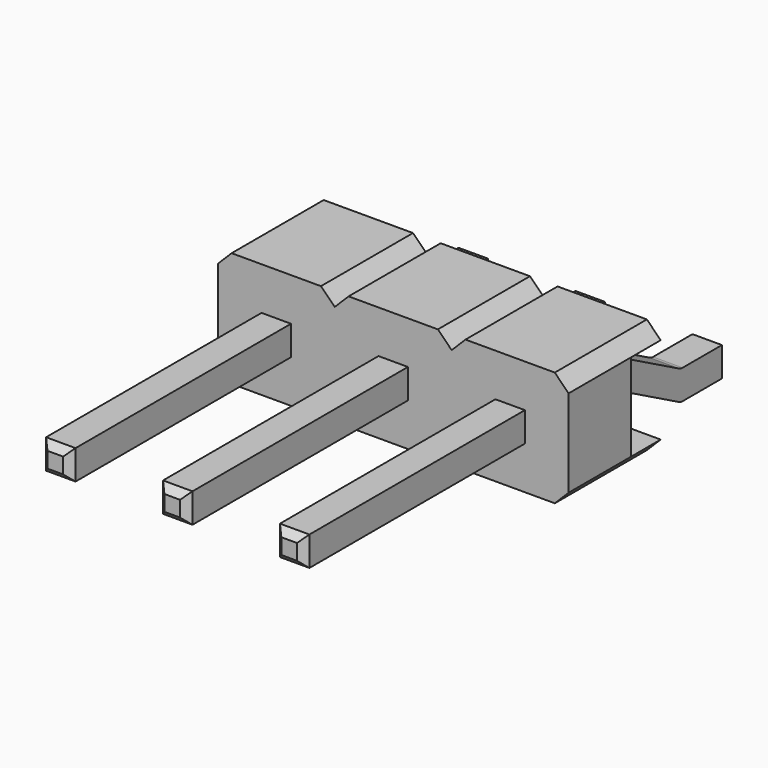
from build123d import *

# Parameters (mm, degrees)
SKETCH002_AS_DRAWN_W                      = 0.64
SKETCH002_AS_DRAWN_H                      = 0.64
EXTRUDE002_DEPTH                          = 6
EXTRUDE002_ONTO_SKETCH002_ROLL_ANGLE      = 90
CHAMFER001_SIZE                           = 0.15
SKETCH003_W                               = 0.8
SKETCH003_H                               = 1.9
EXTRUDE003_DEPTH                          = 7.62
EXTRUDE001_DEPTH                          = 2.5
EXTRUDE001_ONTO_SKETCH001_ROLL_ANGLE      = 90
SKETCH_AS_DRAWN_W                         = 7.62
SKETCH_AS_DRAWN_H                         = 2.5
EXTRUDE_DEPTH                             = 2.5
EXTRUDE_ONTO_SKETCH_ROLL_ANGLE            = 90
CHAMFER_SIZE                              = 0.3
SKETCH004_AS_DRAWN_W                      = 0.64
SKETCH004_AS_DRAWN_H                      = 1.57
EXTRUDE004_DEPTH                          = 3.8
EXTRUDE004_ONTO_SKETCH004_ROLL_ANGLE      = 90
EXTRUDE004_ONTO_SKETCH004_PLACEMENT_ANGLE = 180
EXTRUDE005_DEPTH                          = 5.72
FILLET_R                                  = 0.2
CHAMFER002_SIZE                           = 0.15


with BuildPart() as chamfer001:
    # Sketch002 as drawn → Extrude002 (new)
    with BuildSketch(Plane.XY):
        Rectangle(SKETCH002_AS_DRAWN_W, SKETCH002_AS_DRAWN_H)
        with Locations((-2.54, 0)):
            Rectangle(SKETCH002_AS_DRAWN_W, SKETCH002_AS_DRAWN_H)
        with Locations((2.54, 0)):
            Rectangle(SKETCH002_AS_DRAWN_W, SKETCH002_AS_DRAWN_H)
    extrude(amount=EXTRUDE002_DEPTH)


with BuildPart() as chamfer001_1:
    # Extrude002 onto Sketch002 roll: moved
    add(chamfer001.part.rotate(Axis((0, 0, 0), (1, 0, 0)), EXTRUDE002_ONTO_SKETCH002_ROLL_ANGLE))


with BuildPart() as chamfer001_2:
    # Extrude002 onto Sketch002 placement: moved
    add(chamfer001_1.part.moved(Location((0, -2.5, 0))))

    # Chamfer001
    chamfer001_edges = [chamfer001_2.edges().sort_by_distance(p)[0] for p in [
        (0, -8.5, 0.32),
        (-0.32, -8.5, 0),
        (0, -8.5, -0.32),
        (0.32, -8.5, 0),
        (2.54, -8.5, 0.32),
        (2.22, -8.5, 0),
        (2.54, -8.5, -0.32),
        (2.86, -8.5, 0),
        (-2.54, -8.5, 0.32),
        (-2.86, -8.5, 0),
        (-2.54, -8.5, -0.32),
        (-2.22, -8.5, 0),
    ]]
    chamfer(chamfer001_edges, length=CHAMFER001_SIZE)


with BuildPart() as extrude003:
    # Sketch003 (on Face6 of Cut) → Extrude003 (new body)
    with BuildSketch(Plane(origin=(-3.81, 0, 0), x_dir=(0, -1, 0), z_dir=(-1, 0, 0))):
        with Locations((0.4, 0)):
            Rectangle(SKETCH003_W, SKETCH003_H)
    extrude(amount=-EXTRUDE003_DEPTH)


with BuildPart() as extrude001:
    # Sketch001 as drawn → Extrude001 (new)
    with BuildSketch(Plane.XY):
        Polygon((-1.57, 1.25), (-1.27, 0.95), (-0.97, 1.25), align=None)
        Polygon((1.57, 1.25), (1.27, 0.95), (0.97, 1.25), align=None)
        Polygon((-1.57, -1.25), (-1.27, -0.95), (-0.97, -1.25), align=None)
        Polygon((1.57, -1.25), (1.27, -0.95), (0.97, -1.25), align=None)
    extrude(amount=-EXTRUDE001_DEPTH)


with BuildPart() as extrude001_1:
    # Extrude001 onto Sketch001 roll: moved
    add(extrude001.part.rotate(Axis((0, 0, 0), (1, 0, 0)), EXTRUDE001_ONTO_SKETCH001_ROLL_ANGLE))


with BuildPart() as extrude001_2:
    # Extrude001 onto Sketch001 placement: moved
    add(extrude001_1.part.moved(Location((0, -2.5, 0))))


with BuildPart() as cut001:
    # Sketch as drawn → Extrude (new)
    with BuildSketch(Plane.XY):
        Rectangle(SKETCH_AS_DRAWN_W, SKETCH_AS_DRAWN_H)
    extrude(amount=EXTRUDE_DEPTH)


with BuildPart() as cut001_1:
    # Extrude onto Sketch roll: moved
    add(cut001.part.rotate(Axis((0, 0, 0), (1, 0, 0)), EXTRUDE_ONTO_SKETCH_ROLL_ANGLE))


with BuildPart() as cut001_2:
    # Extrude onto Sketch placement: moved
    add(cut001_1.part)

    # Chamfer
    chamfer_edges = [cut001_2.edges().sort_by_distance(p)[0] for p in [
        (-3.81, -1.25, 1.25),
        (3.81, -1.25, 1.25),
        (3.81, -1.25, -1.25),
        (-3.81, -1.25, -1.25),
    ]]
    chamfer(chamfer_edges, length=CHAMFER_SIZE)

    # Cut: cut Extrude001
    add(extrude001_2.part, mode=Mode.SUBTRACT)

    # Cut001: cut Extrude003
    add(extrude003.part, mode=Mode.SUBTRACT)


with BuildPart() as extrude004:
    # Sketch004 as drawn → Extrude004 (new)
    with BuildSketch(Plane.XY):
        with Locations((0, -0.465)):
            Rectangle(SKETCH004_AS_DRAWN_W, SKETCH004_AS_DRAWN_H)
        with Locations((-2.54, -0.465)):
            Rectangle(SKETCH004_AS_DRAWN_W, SKETCH004_AS_DRAWN_H)
        with Locations((2.54, -0.465)):
            Rectangle(SKETCH004_AS_DRAWN_W, SKETCH004_AS_DRAWN_H)
    extrude(amount=EXTRUDE004_DEPTH)


with BuildPart() as extrude004_1:
    # Extrude004 onto Sketch004 roll: moved
    add(extrude004.part.rotate(Axis((0, 0, 0), (1, 0, 0)), EXTRUDE004_ONTO_SKETCH004_ROLL_ANGLE))


with BuildPart() as extrude004_2:
    # Extrude004 onto Sketch004 placement: moved
    add(extrude004_1.part.moved(Location((0, -0.8, 0))).rotate(Axis((0, -0.8, 0), (0, 0, 1)), EXTRUDE004_ONTO_SKETCH004_PLACEMENT_ANGLE))


with BuildPart() as fusion:
    # Sketch005 (on Face8 of Extrude004) → Extrude005 (new body)
    with BuildSketch(Plane(origin=(-2.86, 0, 0), x_dir=(0, -1, 0), z_dir=(-1, 0, 0))):
        Polygon((0.8, 0.32), (0, 0.32), (-1.73, -0.61), (-3, -0.61), (-3, -1.25), (-1.73, -1.25), (0, -0.32), (0.8, -0.32), align=None)
    extrude(amount=-EXTRUDE005_DEPTH)

    # Common: intersect Extrude004
    add(extrude004_2.part, mode=Mode.INTERSECT)

    # Fillet
    fillet_edges = [fusion.edges().sort_by_distance(p)[0] for p in [
        (2.54, 1.73, -0.61),
        (2.54, 0, 0.32),
        (2.54, 0, -0.32),
        (2.54, 1.73, -1.25),
        (0, 1.73, -0.61),
        (0, 0, 0.32),
        (0, 0, -0.32),
        (0, 1.73, -1.25),
        (-2.54, 1.73, -0.61),
        (-2.54, 0, 0.32),
        (-2.54, 0, -0.32),
        (-2.54, 1.73, -1.25),
    ]]
    fillet(fillet_edges, radius=FILLET_R)

    # Chamfer002
    chamfer002_edges = [fusion.edges().sort_by_distance(p)[0] for p in [
        (2.54, 3, -0.61),
        (2.86, 3, -0.93),
        (2.22, 3, -0.93),
        (2.54, 3, -1.25),
        (0, 3, -0.61),
        (0.32, 3, -0.93),
        (-0.32, 3, -0.93),
        (0, 3, -1.25),
        (-2.54, 3, -0.61),
        (-2.22, 3, -0.93),
        (-2.86, 3, -0.93),
        (-2.54, 3, -1.25),
    ]]
    chamfer(chamfer002_edges, length=CHAMFER002_SIZE)

    # Fusion: union Chamfer001, Cut001
    add(chamfer001_2.part)
    add(cut001_2.part)


solid = fusion.part
